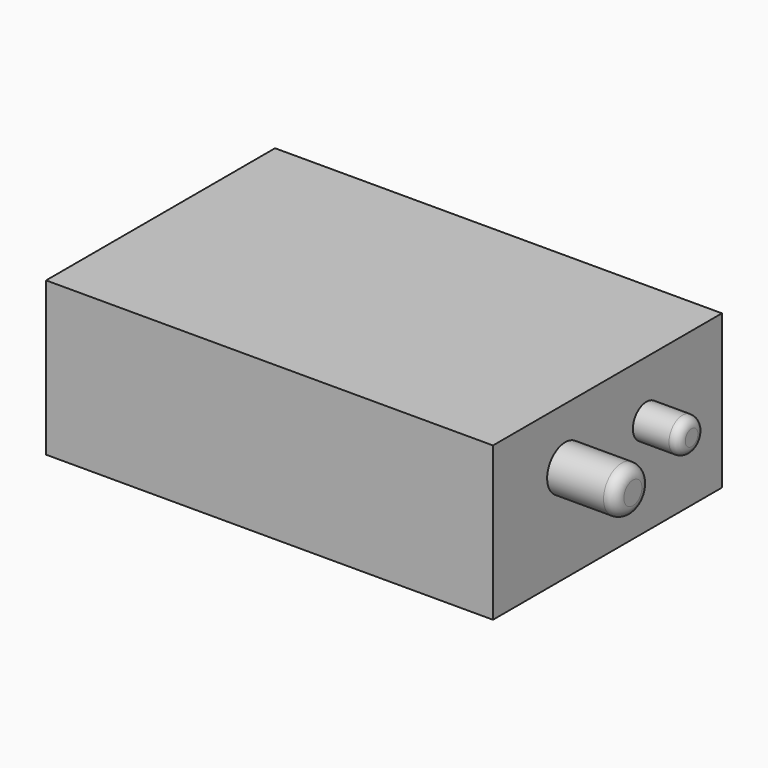
from build123d import *

# Parameters (mm, degrees)
F0_W     = 125.73
F0_H     = 43.18
F1_DEPTH = 80.518
F2_R     = 6.35
F3_DEPTH = 19.05
F2_R_2   = 4.7625
F4_DEPTH = 12.7
F5_R     = 3.175
F6_R     = 2.54


with BuildPart() as f1:
    # F0 (on Front) → F1 (new body)
    with BuildSketch(Plane.XZ):
        with Locations((62.865, 21.59)):
            Rectangle(F0_W, F0_H)
    extrude(amount=F1_DEPTH)

    # F2 (on face) → F3 (join)
    with BuildSketch(Plane.YZ.offset(125.73)):
        with Locations((-55.118, 27.305)):
            Circle(F2_R)
    extrude(amount=F3_DEPTH)

    # F2 (on face) → F4 (join)
    with BuildSketch(Plane.YZ.offset(125.73)):
        with Locations((-26.543, 27.305)):
            Circle(F2_R_2)
    extrude(amount=F4_DEPTH)

    # F5
    f5_edges = [f1.edges().sort_by_distance(p)[0] for p in [
        (144.78, -61.468, 27.305),
    ]]
    fillet(f5_edges, radius=F5_R)

    # F6
    f6_edges = [f1.edges().sort_by_distance(p)[0] for p in [
        (138.43, -31.3055, 27.305),
    ]]
    fillet(f6_edges, radius=F6_R)


solid = f1.part
